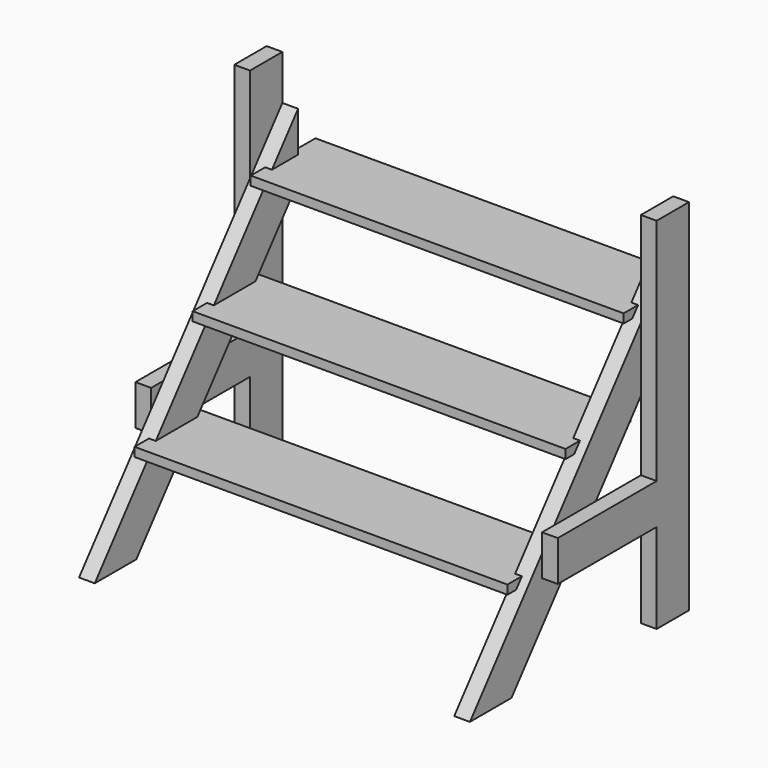
from build123d import *

# Parameters (mm, degrees)
F0_W      = 90
F0_H      = 800
F1_DEPTH  = 35
F3_DEPTH  = 35
F5_W      = 180
F5_H      = 20
F6_DEPTH  = 800
F9_DEPTH  = 35
F10_W     = 90
F10_H     = 800
F11_DEPTH = 35
F12_W     = 35
F12_H     = 90
F13_DEPTH = 275
F4_W      = 35
F4_H      = 90
F14_DEPTH = 275
F15_DEPTH = 15
F16_DEPTH = 15
F17_DEPTH = 15
F18_DEPTH = 15
F19_DEPTH = 15
F20_DEPTH = 15


with BuildPart() as f1:
    # F0 (on Right) → F1 (new body)
    with BuildSketch(Plane.YZ):
        with Locations((271.7706648815, 130.7955920696)):
            Rectangle(F0_W, F0_H)
    extrude(amount=F1_DEPTH)

    # F2 (on face) → F3 (join)
    with BuildSketch(Plane(origin=(0, 0, 0), x_dir=(0, -1, 0), z_dir=(-1, 0, 0))):
        Polygon((248.9147600678, -269.2044079304), (-316.7706648815, 430.7955920696), (-316.7706648815, 287.6064688794), (-84.349539787, 0), (133.2004743535, -269.2044079304), align=None)
    extrude(amount=F3_DEPTH)

    # F5 (on face) → F6 (join)
    with BuildSketch(Plane(origin=(-35, 0, 0), x_dir=(0, -1, 0), z_dir=(-1, 0, 0))):
        with Locations((29.4332100823, -69.2044079304)):
            Rectangle(F5_W, F5_H)
        with Locations((-293.8156041744, 330.7955920696)):
            Rectangle(F5_W, F5_H)
        with Locations((-132.1911970461, 130.7955920696)):
            Rectangle(F5_W, F5_H)
    extrude(amount=F6_DEPTH)

    # F8 (on face) → F9 (join)
    with BuildSketch(Plane(origin=(-835, 0, 0), x_dir=(0, -1, 0), z_dir=(-1, 0, 0))):
        Polygon((-316.7706648815, 430.7955920696), (-316.7706648815, 287.6064688794), (133.2004743535, -269.2044079304), (248.9147600678, -269.2044079304), align=None)
    extrude(amount=F9_DEPTH)

    # F10 (on face) → F11 (join)
    with BuildSketch(Plane(origin=(-870, 0, 0), x_dir=(0, -1, 0), z_dir=(-1, 0, 0))):
        with Locations((-271.7706648815, 130.7955920696)):
            Rectangle(F10_W, F10_H)
    extrude(amount=F11_DEPTH)

    # F12 (on face) → F13 (join)
    with BuildSketch(Plane.XZ.offset(-226.7706648815)):
        with Locations((-887.5, -24.2044079304)):
            Rectangle(F12_W, F12_H)
    extrude(amount=F13_DEPTH)

    # F4 (on face) → F14 (join)
    with BuildSketch(Plane.XZ.offset(-226.7706648815)):
        with Locations((17.5, -24.2044079304)):
            Rectangle(F4_W, F4_H)
    extrude(amount=F14_DEPTH)

    # F5 (on face) → F15 (join)
    with BuildSketch(Plane(origin=(-35, 0, 0), x_dir=(0, -1, 0), z_dir=(-1, 0, 0))):
        with Locations((29.4332100823, -69.2044079304)):
            Rectangle(F5_W, F5_H)
        with Locations((-293.8156041744, 330.7955920696)):
            Rectangle(F5_W, F5_H)
        with Locations((-132.1911970461, 130.7955920696)):
            Rectangle(F5_W, F5_H)
    extrude(amount=-F15_DEPTH)

    # F16 (add): a face of the model
    f16_faces = [f1.faces().sort_by_distance(p)[0] for p in [
        (-835, 58.6012499561, 131.633644551),
    ]]
    extrude(f16_faces, amount=F16_DEPTH)

    # F17 (add): a face of the model
    f17_faces = [f1.faces().sort_by_distance(p)[0] for p in [
        (-835, 205.781144136, 129.9575395882),
    ]]
    extrude(f17_faces, amount=F17_DEPTH)

    # F18 (add): a face of the model
    f18_faces = [f1.faces().sort_by_distance(p)[0] for p in [
        (-835, 220.2256570845, 331.633644551),
    ]]
    extrude(f18_faces, amount=F18_DEPTH)

    # F19 (add): a face of the model
    f19_faces = [f1.faces().sort_by_distance(p)[0] for p in [
        (-835, 350.293134528, 330.7955920696),
    ]]
    extrude(f19_faces, amount=F19_DEPTH)

    # F20 (add): faces of the model
    f20_faces = [f1.faces().sort_by_distance(p)[0] for p in [
        (-835, -103.0231571722, -68.366355449),
        (-835, 44.1567370077, -70.0424604118),
    ]]
    extrude(f20_faces, amount=F20_DEPTH)


solid = f1.part
